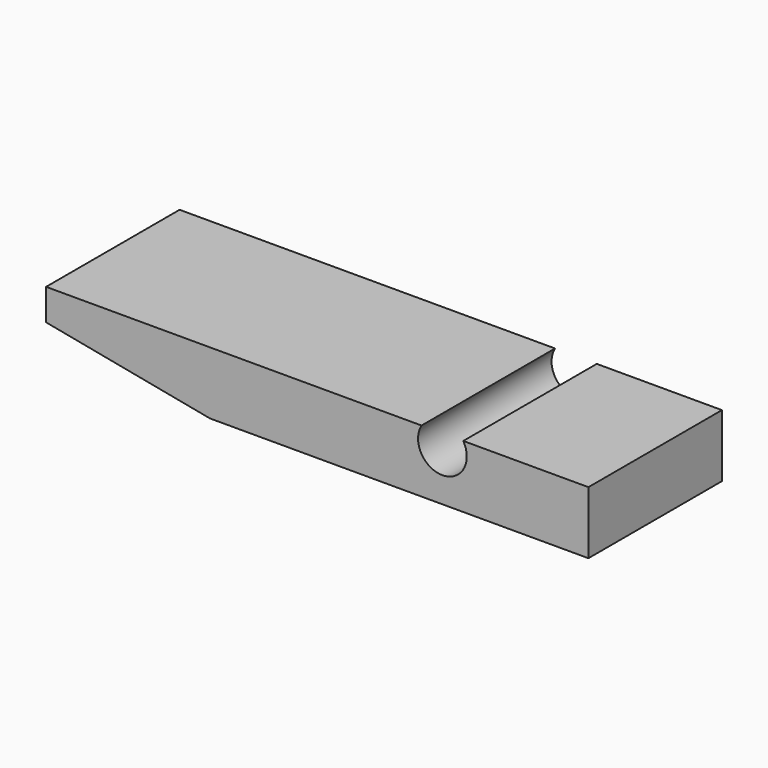
from build123d import *

# Parameters (mm, degrees)
F1_DEPTH = 25.4


with BuildPart() as f1:
    # F0 (on Front) → F1 (new body)
    with BuildSketch(Plane.XZ):
        with BuildLine():
            Line((-16.325479, -4.7625), (41.275, -4.7625))
            Line((41.275, -4.7625), (41.275, 4.7625))
            Line((41.275, 4.7625), (22.225, 4.7625))
            ThreePointArc((22.225, 4.7625), (19.05, -0.862888), (15.875, 4.7625))
            Line((15.875, 4.7625), (-41.275, 4.7625))
            Line((-41.275, 4.7625), (-41.275, 0))
            Line((-41.275, 0), (-16.325479, -4.7625))
        make_face()
    extrude(amount=F1_DEPTH)


solid = f1.part
